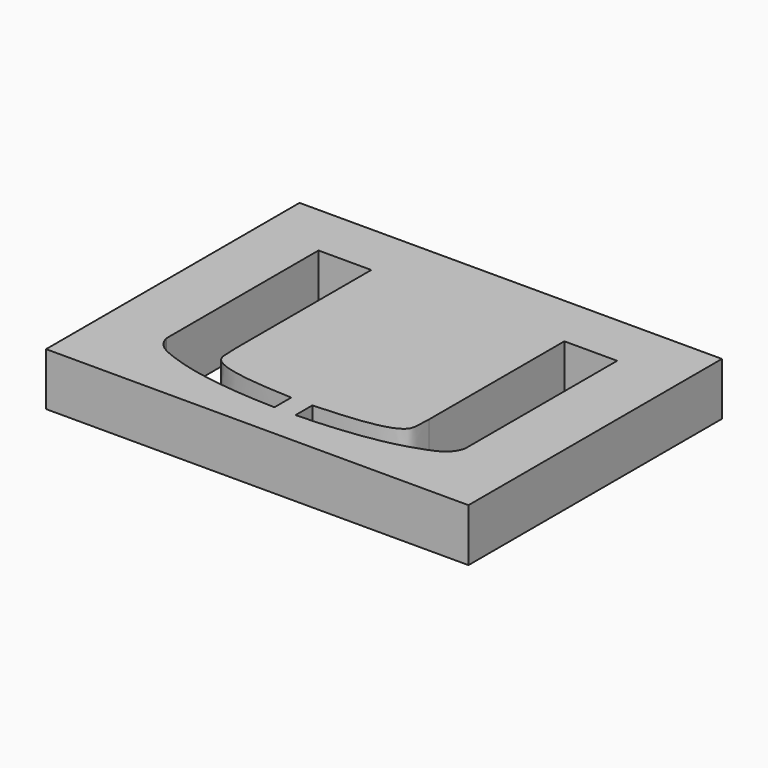
from build123d import *

# Parameters (mm, degrees)
F0_W     = 200
F0_H     = 150
F1_DEPTH = 25


with BuildPart() as f1:
    # F0 (on Top) → F1 (new body)
    with BuildSketch(Plane.XY):
        with Locations((5, 18.2738386095)):
            Rectangle(F0_W, F0_H)
        with BuildLine():
            Line((-65.7100941103, 67.8833236819), (-40.7100941103, 67.8833236819))
            Line((-40.7100941103, 67.8833236819), (-40.7100941103, -12.1166763181))
            add(Edge.make_bspline(
                [(-40.7100941103, -12.1166763181), (-40.3932750045, -18.210933602), (-41.8477127966, -25.808767918), (-24.0698720189, -29.4387048073), (0, -30.3580106795)],
                knots=[0, 0, 0, 0, 0.3442637758, 1, 1, 1, 1], degree=3))
            Line((0, -30.3580106795), (0, -40.3580106795))
            add(Edge.make_bspline(
                [(-65.7100941103, -22.1166763181), (-64.186432869, -28.0480915883), (-51.3154811853, -34.028653192), (-29.45660202, -39.5209002953), (0, -40.3580106795)],
                knots=[0, 0, 0, 0, 0.3450102249, 1, 1, 1, 1], degree=3))
            Line((-65.7100941103, -22.1166763181), (-65.7100941103, 67.8833236819))
        make_face(mode=Mode.SUBTRACT)
        with BuildLine():
            Line((75.7100941103, 67.8833236819), (75.7100941103, -22.1166763181))
            add(Edge.make_bspline(
                [(75.7100941103, -22.1166763181), (74.186432869, -28.0480915883), (61.3154811853, -34.028653192), (39.45660202, -39.5209002953), (10, -40.3580106795)],
                knots=[0, 0, 0, 0, 0.3450102249, 1, 1, 1, 1], degree=3))
            Line((10, -40.3580106795), (10, -30.3580106795))
            add(Edge.make_bspline(
                [(50.7100941103, -12.1166763181), (50.3932750045, -18.210933602), (51.8477127966, -25.808767918), (34.0698720189, -29.4387048073), (10, -30.3580106795)],
                knots=[0, 0, 0, 0, 0.3442637758, 1, 1, 1, 1], degree=3))
            Line((50.7100941103, -12.1166763181), (50.7100941103, 67.8833236819))
            Line((50.7100941103, 67.8833236819), (75.7100941103, 67.8833236819))
        make_face(mode=Mode.SUBTRACT)
    extrude(amount=F1_DEPTH)


solid = f1.part
